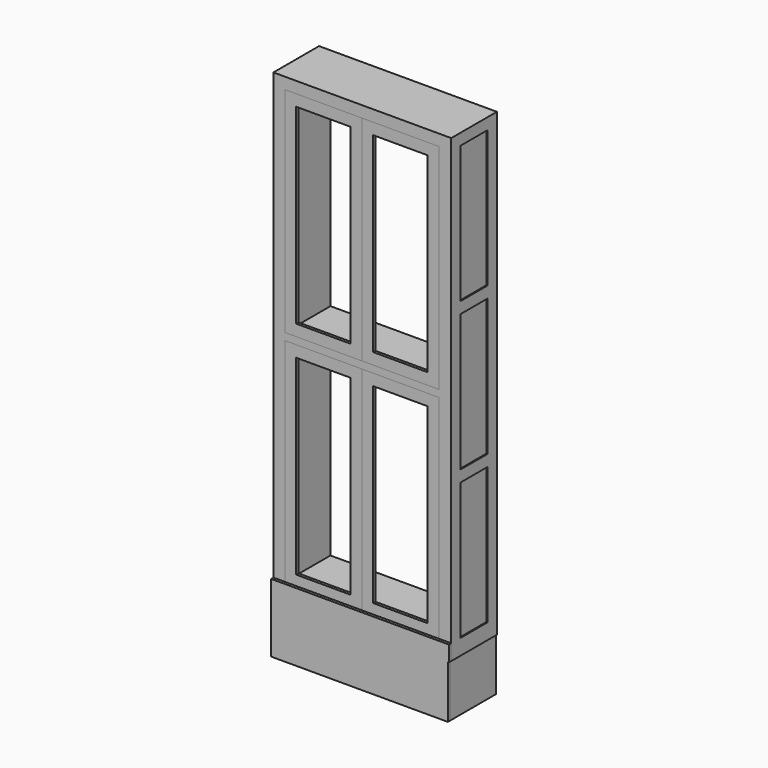
from build123d import *

# Parameters (mm, degrees)
F0_W      = 685.8
F0_H      = 31.75
F1_DEPTH  = 254
F2_W      = 152.4
F2_H      = 50.8
F3_DEPTH  = 4.7625
F4_W      = 342.9
F4_H      = 952.5
F4_W_2    = 241.3
F4_H_2    = 850.9
F5_DEPTH  = 12.7
F11_DEPTH = 12.7


with BuildPart() as f1:
    # F0 (on Front) → F1 (new body)
    with BuildSketch(Plane.XZ):
        Polygon((342.9, 2082.8), (393.7, 2082.8), (393.7, 2133.6), (342.9, 2133.6), (-342.9, 2133.6), (-393.7, 2133.6), (-393.7, 2082.8), (-342.9, 2082.8), align=None)
        with Locations((0, 1114.425)):
            Rectangle(F0_W, F0_H)
        Polygon((-393.7, 152.4), (-342.9, 152.4), (-342.9, 1098.55), (-342.9, 1130.3), (-342.9, 2082.8), (-393.7, 2082.8), align=None)
        Polygon((342.9, 152.4), (393.7, 152.4), (393.7, 2082.8), (342.9, 2082.8), (342.9, 1130.3), (342.9, 1098.55), align=None)
        Polygon((393.7, -152.4), (393.7, 152.4), (342.9, 152.4), (-342.9, 152.4), (-393.7, 152.4), (-393.7, -152.4), align=None)
    extrude(amount=F1_DEPTH)

    # F2 (on face) → F3 (join)
    with BuildSketch(Plane.YZ.offset(393.7)):
        Polygon((0, 2133.6), (-254, 2133.6), (-254, 2082.8), (-203.2, 2082.8), (-50.8, 2082.8), (0, 2082.8), align=None)
        Polygon((-203.2, 2082.8), (-254, 2082.8), (-254, 152.4), (-203.2, 152.4), (-203.2, 762), (-203.2, 812.8), (-203.2, 1422.4), (-203.2, 1473.2), align=None)
        Polygon((0, 152.4), (0, 2082.8), (-50.8, 2082.8), (-50.8, 1473.2), (-50.8, 1422.4), (-50.8, 812.8), (-50.8, 762), (-50.8, 152.4), align=None)
        Polygon((-203.2, 152.4), (-254, 152.4), (-254, 82.55), (-50.8, 82.55), (0, 82.55), (0, 152.4), (-50.8, 152.4), align=None)
        with Locations((-127, 787.4)):
            Rectangle(F2_W, F2_H)
        with Locations((-127, 1447.8)):
            Rectangle(F2_W, F2_H)
    extrude(amount=F3_DEPTH)


with BuildPart() as f5:
    # F4 (on face) → F5 (new body)
    with BuildSketch(Plane.XZ.offset(254)):
        with Locations((-171.45, 1606.55)):
            Rectangle(F4_W, F4_H)
        with Locations((-171.45, 1606.55)):
            Rectangle(F4_W_2, F4_H_2, mode=Mode.SUBTRACT)
    extrude(amount=-F5_DEPTH)


with BuildPart() as f7_1:
    # F7: instance of F5
    add(f5.part.mirror(Plane(origin=(0, -247.65, 1606.55), x_dir=(0, 1, 0), z_dir=(1, 0, 0))))


with BuildPart() as f9_1:
    # F9: instance of F5
    add(f5.part.mirror(Plane(origin=(0, -127, 1114.425), x_dir=(1, 0, 0), z_dir=(0, 0, 1))))


with BuildPart() as f9_2:
    # F9: instance of F7_1
    add(f7_1.part.mirror(Plane(origin=(0, -127, 1114.425), x_dir=(1, 0, 0), z_dir=(0, 0, 1))))


with BuildPart() as f11:
    # F10 (on face) → F11 (new body)
    with BuildSketch(Plane.XZ.offset(254)):
        Polygon((-393.7, 152.4), (-393.7, -152.4), (393.7, -152.4), (393.7, 82.55), (398.4625, 82.55), (398.4625, 152.4), (342.9, 152.4), (-342.9, 152.4), align=None)
    extrude(amount=F11_DEPTH)


solid = Compound([f1.part, f5.part, f7_1.part, f9_1.part, f9_2.part, f11.part])
